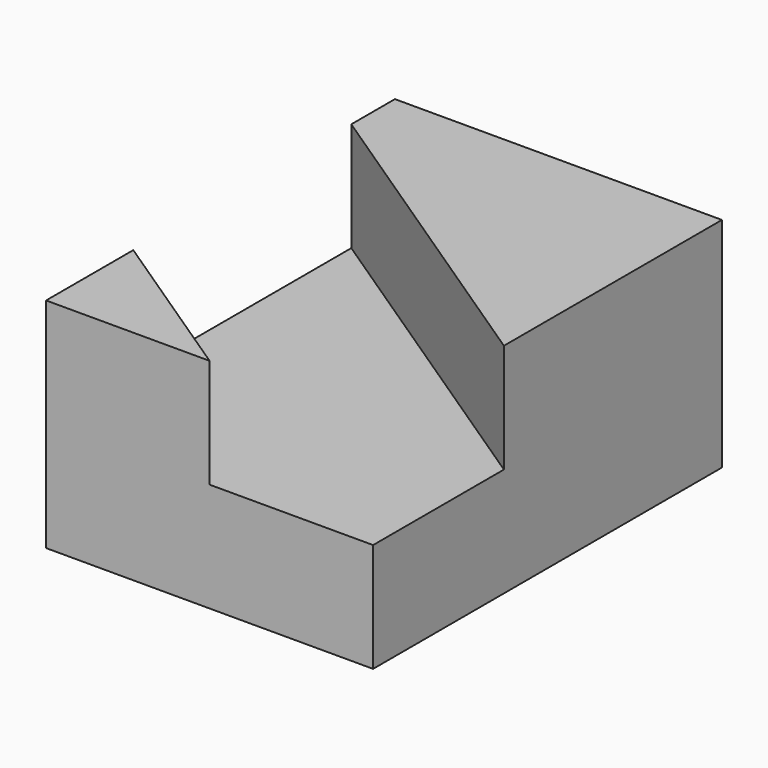
from build123d import *

# Parameters (mm, degrees)
F0_W     = 38.1
F0_H     = 50.8
F1_DEPTH = 25.4
F3_DEPTH = 12.7
F5_DEPTH = 12.7
F6_W     = 50.8
F6_H     = 12.7
F7_DEPTH = 38.1


with BuildPart() as f1:
    # F0 (on Top) → F1 (new body)
    with BuildSketch(Plane.XY):
        with Locations((19.05, 25.4)):
            Rectangle(F0_W, F0_H)
    extrude(amount=-F1_DEPTH)

    # F2 (on face) → F3 (join)
    with BuildSketch(Plane.XY):
        Polygon((0, 12.7), (0, 0), (19.05, 0), align=None)
    extrude(amount=F3_DEPTH)

    # F4 (on face) → F5 (join)
    with BuildSketch(Plane.XY):
        Polygon((38.1, 50.8), (0, 50.8), (0, 44.45), (38.1, 19.05), align=None)
    extrude(amount=F5_DEPTH)

    # F6 (on face) → F7 (cut)
    with BuildSketch(Plane(origin=(0, 0, 0), x_dir=(0, -1, 0), z_dir=(-1, 0, 0))):
        with Locations((-25.4, -19.05)):
            Rectangle(F6_W, F6_H)
    extrude(amount=-F7_DEPTH, mode=Mode.SUBTRACT)


solid = f1.part
